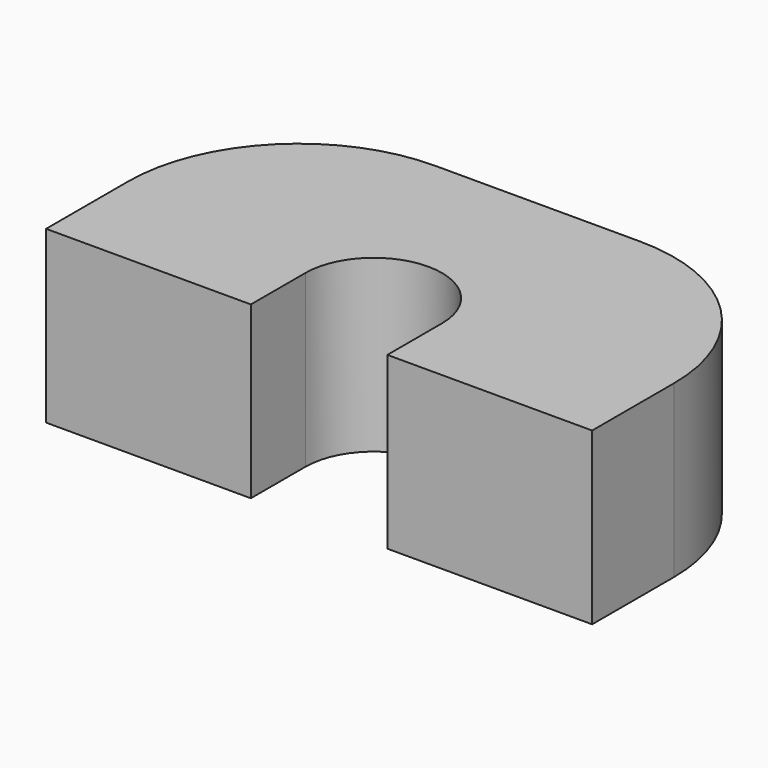
from build123d import *

# Parameters (mm, degrees)
F1_DEPTH = 5


with BuildPart() as f1:
    # F0 (on Top) → F1 (new body)
    with BuildSketch(Plane.XY):
        with BuildLine():
            ThreePointArc((-2, 0), (0, 2), (2, 0))
            Line((2, 0), (2, -2))
            Line((2, -2), (8, -2))
            Line((8, -2), (8, 1))
            ThreePointArc((8, 1), (6.535534, 4.535534), (3, 6))
            Line((3, 6), (-3, 6))
            ThreePointArc((-3, 6), (-6.535534, 4.535534), (-8, 1))
            Line((-8, 1), (-8, -2))
            Line((-8, -2), (-2, -2))
            Line((-2, -2), (-2, 0))
        make_face()
    extrude(amount=F1_DEPTH)


solid = f1.part
